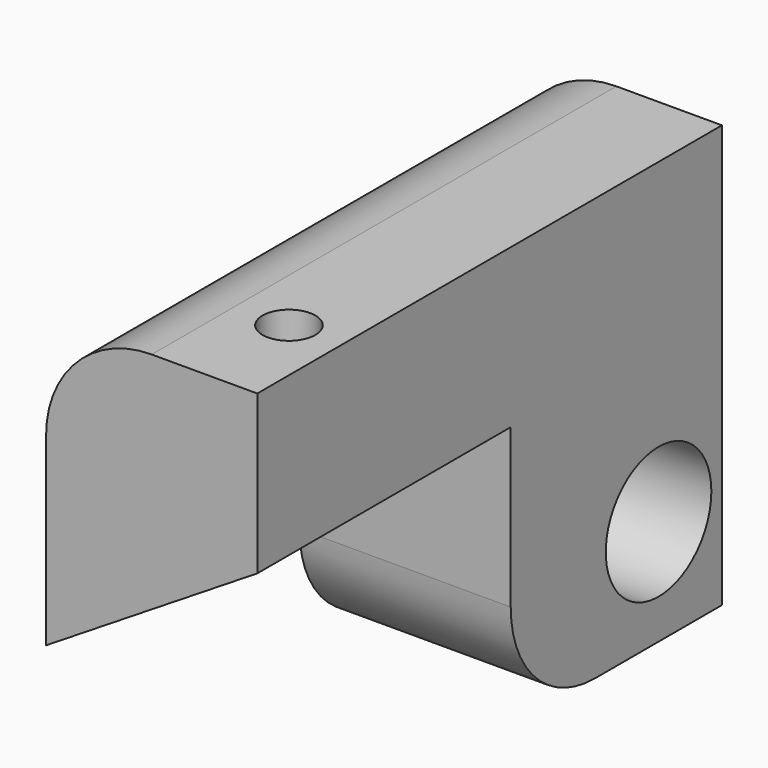
from build123d import *

# Parameters (mm, degrees)
F1_DEPTH       = 139.7
F2_DEPTH       = 63.5
F3_R           = 25.4
F5_D           = 19.05
F5_CBORE_D     = 31.75
F5_CBORE_DEPTH = 25.4
F7_D           = 12.7


with BuildPart() as f1:
    # F0 (on Front) → F1 (new body)
    with BuildSketch(Plane.XZ):
        with BuildLine():
            Line((0, 44.45), (0, 0))
            Line((0, 0), (50.8, 31.75))
            Line((50.8, 31.75), (50.8, 69.85))
            Line((50.8, 69.85), (25.4, 69.85))
            ThreePointArc((25.4, 69.85), (7.439488, 62.410512), (0, 44.45))
        make_face()
    extrude(amount=F1_DEPTH)

    # F0 (on Front) → F2 (join)
    with BuildSketch(Plane.XZ):
        Polygon((50.8, 31.75), (0, 0), (0, -31.75), (50.8, -31.75), align=None)
    extrude(amount=F2_DEPTH)

    # F3
    f3_edges = [f1.edges().sort_by_distance(p)[0] for p in [
        (25.4, -63.5, -31.75),
    ]]
    fillet(f3_edges, radius=F3_R)

    # F5 (through all)
    with Locations(Plane.YZ.offset(50.8)):
        with Locations((-19.05, -6.35)):
            CounterBoreHole(F5_D / 2, F5_CBORE_D / 2, F5_CBORE_DEPTH)

    # F7 (through all)
    with Locations(Plane.XY.offset(69.85)):
        with Locations((38.1, -114.3)):
            Hole(F7_D / 2)


solid = f1.part
